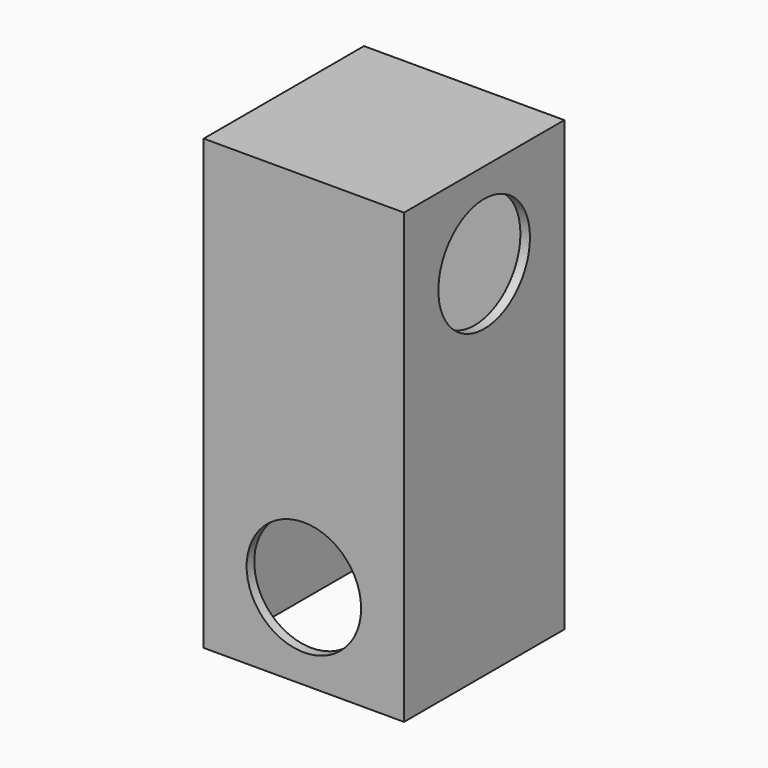
from build123d import *

# Parameters (mm, degrees)
F0_W     = 42
F0_H     = 94
F1_DEPTH = 21
F3_T     = -2
F2_R     = 12
F4_DEPTH = 38.1
F5_R     = 12
F6_DEPTH = 38.1


with BuildPart() as f1:
    # F0 (on Front) → F1 (new body, symmetric)
    with BuildSketch(Plane.XZ):
        Rectangle(F0_W, F0_H)
    extrude(amount=F1_DEPTH, both=True)

    # F3
    f3_openings = [f1.faces().sort_by_distance(p)[0] for p in [
        (0, 0, -47),
    ]]
    offset(amount=F3_T, openings=f3_openings)

    # F2 (on Front) → F4 (cut, symmetric)
    with BuildSketch(Plane.XZ):
        with Locations((0, -29)):
            Circle(F2_R)
    extrude(amount=F4_DEPTH, both=True, mode=Mode.SUBTRACT)

    # F5 (on Right) → F6 (cut, symmetric)
    with BuildSketch(Plane.YZ):
        with Locations((0, 29)):
            Circle(F5_R)
    extrude(amount=F6_DEPTH, both=True, mode=Mode.SUBTRACT)


solid = f1.part
